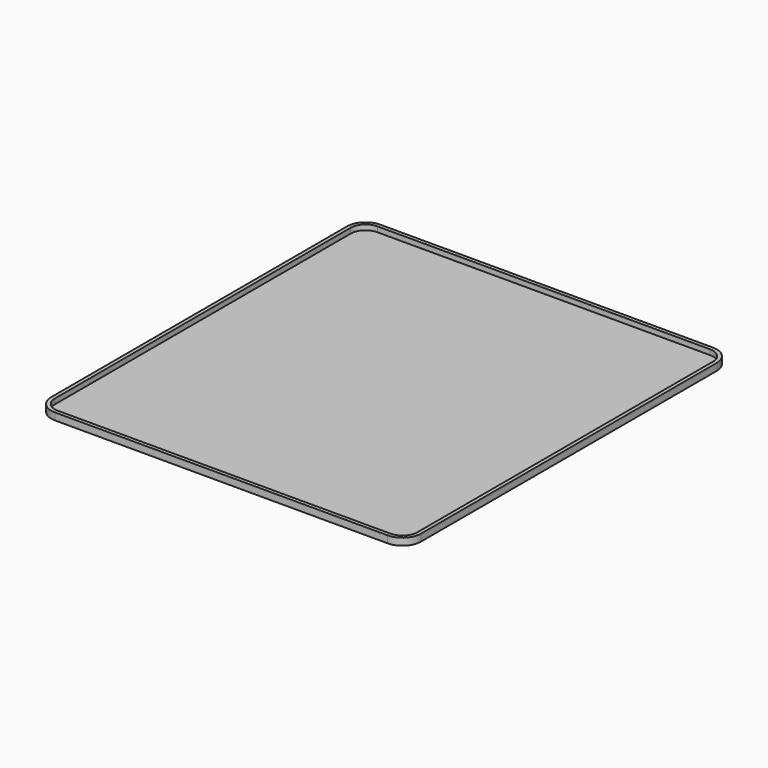
from build123d import *

# Parameters (mm, degrees)
F1_DEPTH = 0.5
F3_DEPTH = 1.4


with BuildPart() as f1:
    # F0 (on Top) → F1 (new body)
    with BuildSketch(Plane.XY):
        with BuildLine():
            Line((-45, -53.918237), (45, -53.918237))
            ThreePointArc((45, -53.918237), (48.535534, -52.453771), (50, -48.918237))
            Line((50, -48.918237), (50, 51.081763))
            ThreePointArc((50, 51.081763), (48.535534, 54.617297), (45, 56.081763))
            Line((45, 56.081763), (-45, 56.081763))
            ThreePointArc((-45, 56.081763), (-48.535534, 54.617297), (-50, 51.081763))
            Line((-50, 51.081763), (-50, -48.918237))
            ThreePointArc((-50, -48.918237), (-48.535534, -52.453771), (-45, -53.918237))
        make_face()
    extrude(amount=F1_DEPTH)

    # F2 (on face) → F3 (join)
    with BuildSketch(Plane.XY.offset(0.5)):
        with BuildLine():
            ThreePointArc((45, -53.918237), (48.535534, -52.453771), (50, -48.918237))
            Line((50, -48.918237), (50, 51.081763))
            ThreePointArc((50, 51.081763), (48.535534, 54.617297), (45, 56.081763))
            Line((45, 56.081763), (-45, 56.081763))
            ThreePointArc((-45, 56.081763), (-48.535534, 54.617297), (-50, 51.081763))
            Line((-50, 51.081763), (-50, -48.918237))
            ThreePointArc((-50, -48.918237), (-48.535534, -52.453771), (-45, -53.918237))
            Line((-45, -53.918237), (45, -53.918237))
        make_face()
        with BuildLine():
            Line((49, 51.081763), (49, -48.918237))
            ThreePointArc((49, -48.918237), (47.828427, -51.746664), (45, -52.918237))
            Line((45, -52.918237), (-45, -52.918237))
            ThreePointArc((-45, -52.918237), (-47.828427, -51.746664), (-49, -48.918237))
            Line((-49, -48.918237), (-49, 51.081763))
            ThreePointArc((-49, 51.081763), (-47.828427, 53.91019), (-45, 55.081763))
            Line((-45, 55.081763), (45, 55.081763))
            ThreePointArc((45, 55.081763), (47.828427, 53.91019), (49, 51.081763))
        make_face(mode=Mode.SUBTRACT)
    extrude(amount=F3_DEPTH)


solid = f1.part
